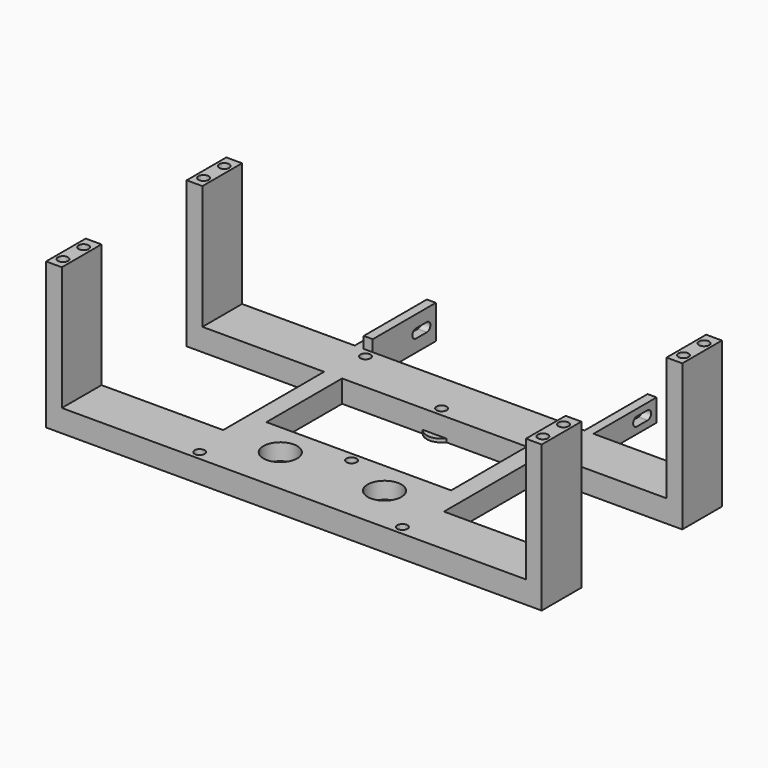
from build123d import *

# Parameters (mm, degrees)
SKETCH_R        = 4.15
SKETCH_R_2      = 2
SKETCH_W        = 82
SKETCH_H        = 42
PAD_DEPTH       = 2.525
SKETCH003_W     = 4
SKETCH003_H     = 35
PAD002_DEPTH    = 12.475
POCKET001_DEPTH = 5
SKETCH005_R     = 6.6
SKETCH005_R_2   = 4.1
PAD003_DEPTH    = 1.5
SKETCH006_R     = 7.5
SKETCH006_R_2   = 2.25
SKETCH006_W     = 82
SKETCH006_H     = 42
PAD004_DEPTH    = 9.91
POCKET_DEPTH    = 163.001
SKETCH008_W     = 7
SKETCH008_H     = 22
PAD005_DEPTH    = 55
SKETCH009_R     = 2.25
POCKET002_DEPTH = 20


with BuildPart() as bodymountbody:
    # Sketch → Pad (new body)
    with BuildSketch(Plane.XY):
        Polygon((-49, 53), (-45, 53), (-45, 18), (49, 18), (49, -82), (-49, -82), align=None)
        with Locations((-23.125, -60.621)):
            Circle(SKETCH_R, mode=Mode.SUBTRACT)
        with Locations((23.125, -60.621)):
            Circle(SKETCH_R, mode=Mode.SUBTRACT)
        with Locations((-45, 14)):
            Circle(SKETCH_R_2, mode=Mode.SUBTRACT)
        with Locations((45, 14)):
            Circle(SKETCH_R_2, mode=Mode.SUBTRACT)
        with Locations((45, -78)):
            Circle(SKETCH_R_2, mode=Mode.SUBTRACT)
        with Locations((-45, -78)):
            Circle(SKETCH_R_2, mode=Mode.SUBTRACT)
        Circle(SKETCH_R_2, mode=Mode.SUBTRACT)
        with Locations((0, -50)):
            Circle(SKETCH_R_2, mode=Mode.SUBTRACT)
        with Locations((0, -25)):
            Rectangle(SKETCH_W, SKETCH_H, mode=Mode.SUBTRACT)
    extrude(amount=PAD_DEPTH)

    # Sketch003 → Pad002 (join)
    with BuildSketch(Plane.XY.offset(2.525)):
        with Locations((-47, 35.5)):
            Rectangle(SKETCH003_W, SKETCH003_H)
    extrude(amount=PAD002_DEPTH)

    # Sketch004 (on Face8 of Pad002) → Pocket001 (cut)
    with BuildSketch(Plane(origin=(-49, 0, 0), x_dir=(0, -1, 0), z_dir=(-1, 0, 0))):
        with BuildLine():
            ThreePointArc((-48, 9.5), (-49.999983, 7.499991), (-47.999983, 5.5))
            Line((-47.999983, 5.5), (-42, 5.5))
            ThreePointArc((-42, 5.5), (-40, 7.5), (-42, 9.5))
            Line((-48, 9.5), (-42, 9.5))
        make_face()
    extrude(amount=-POCKET001_DEPTH, mode=Mode.SUBTRACT)


with BuildPart() as bearingwasherbody:
    # Sketch005 → Pad003 (new body)
    with BuildSketch(Plane.XY):
        Circle(SKETCH005_R)
        Circle(SKETCH005_R_2, mode=Mode.SUBTRACT)
    extrude(amount=PAD003_DEPTH)


with BuildPart() as spacermountbody:
    # Sketch006 → Pad004 (new body)
    with BuildSketch(Plane.XY):
        Polygon((49, -82), (-49, -82), (-110, -82), (-110, -60), (-49, -60), (-49, -4), (-110, -4), (-110, 18), (-53, 18), (-53, 53), (-49, 53), (-49, 18), (49, 18), (49, 53), (53, 53), (53, 18), (110, 18), (110, -4), (49, -4), (49, -60), (110, -60), (110, -82), align=None)
        with Locations((-23.125, -60.621)):
            Circle(SKETCH006_R, mode=Mode.SUBTRACT)
        with Locations((23.125, -60.621)):
            Circle(SKETCH006_R, mode=Mode.SUBTRACT)
        with Locations((-45, 14)):
            Circle(SKETCH006_R_2, mode=Mode.SUBTRACT)
        with Locations((45, 14)):
            Circle(SKETCH006_R_2, mode=Mode.SUBTRACT)
        with Locations((45, -78)):
            Circle(SKETCH006_R_2, mode=Mode.SUBTRACT)
        with Locations((-45, -78)):
            Circle(SKETCH006_R_2, mode=Mode.SUBTRACT)
        Circle(SKETCH006_R_2, mode=Mode.SUBTRACT)
        with Locations((0, -50)):
            Circle(SKETCH006_R_2, mode=Mode.SUBTRACT)
        with Locations((0, -25)):
            Rectangle(SKETCH006_W, SKETCH006_H, mode=Mode.SUBTRACT)
    extrude(amount=PAD004_DEPTH)

    # Sketch007 (on Face10 of Pad004) → Pocket (cut, through all)
    with BuildSketch(Plane(origin=(-53, 0, 0), x_dir=(0, -1, 0), z_dir=(-1, 0, 0))):
        with BuildLine():
            ThreePointArc((-48, 6.955), (-49.999994, 4.954997), (-47.999994, 2.955))
            Line((-47.999994, 2.955), (-42, 2.955))
            ThreePointArc((-42, 2.955), (-40, 4.955), (-42, 6.955))
            Line((-48, 6.955), (-42, 6.955))
        make_face()
    extrude(amount=-POCKET_DEPTH, mode=Mode.SUBTRACT)

    # Sketch008 (on Face5 of Pocket) → Pad005 (join)
    with BuildSketch(Plane.XY.offset(9.91)):
        with Locations((-106.5, 7)):
            Rectangle(SKETCH008_W, SKETCH008_H)
        with Locations((106.5, 7)):
            Rectangle(SKETCH008_W, SKETCH008_H)
        with Locations((-106.5, -71)):
            Rectangle(SKETCH008_W, SKETCH008_H)
        with Locations((106.5, -71)):
            Rectangle(SKETCH008_W, SKETCH008_H)
    extrude(amount=PAD005_DEPTH)

    # Sketch009 (on Face64 of Pad005) → Pocket002 (cut)
    with BuildSketch(Plane.XY.offset(64.91)):
        with Locations((-106.5, 12.5)):
            Circle(SKETCH009_R)
        with Locations((-106.5, 1)):
            Circle(SKETCH009_R)
        with Locations((106.5, 12.5)):
            Circle(SKETCH009_R)
        with Locations((106.5, 1)):
            Circle(SKETCH009_R)
        with Locations((106.5, -65.5)):
            Circle(SKETCH009_R)
        with Locations((106.5, -77)):
            Circle(SKETCH009_R)
        with Locations((-106.5, -65.5)):
            Circle(SKETCH009_R)
        with Locations((-106.5, -77)):
            Circle(SKETCH009_R)
    extrude(amount=-POCKET002_DEPTH, mode=Mode.SUBTRACT)


solid = Compound([bodymountbody.part, bearingwasherbody.part, spacermountbody.part])
